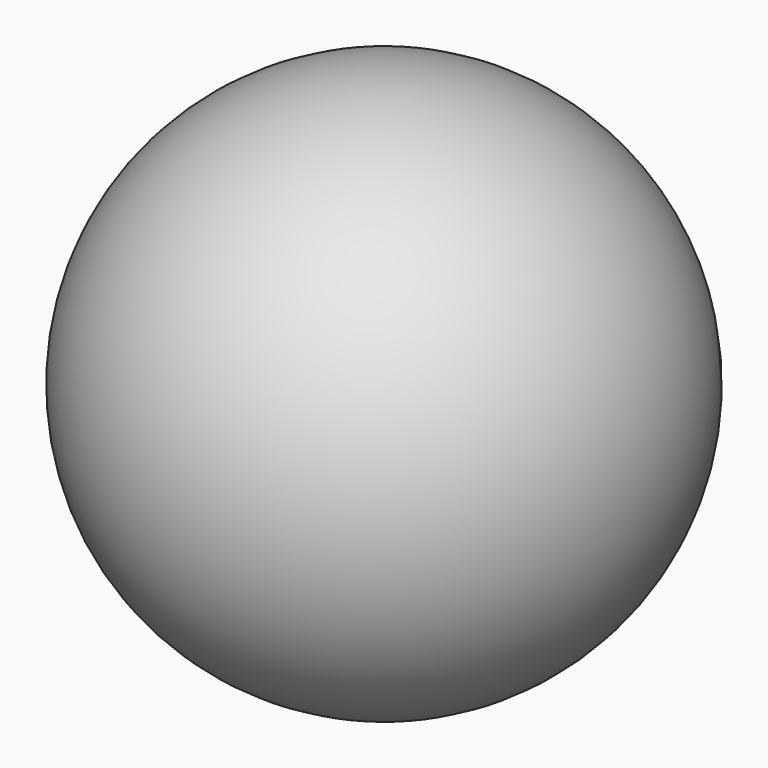
from build123d import *

# Parameters (mm, degrees)
F2_R     = 12
F3_DEPTH = 17.001


with BuildPart() as f1:
    # F0 (on Front) → F1 (revolve)
    with BuildSketch(Plane.XZ):
        with BuildLine():
            Line((0, -17), (0, 17))
            ThreePointArc((0, 17), (-17, 0), (0, -17))
        make_face()
    revolve(axis=Axis((0, 0, 0), (0, 0, -1)))

    # F2 (on Front) → F3 (cut, through all)
    with BuildSketch(Plane.XZ):
        Circle(F2_R)
    extrude(amount=-F3_DEPTH, mode=Mode.SUBTRACT)


solid = f1.part
